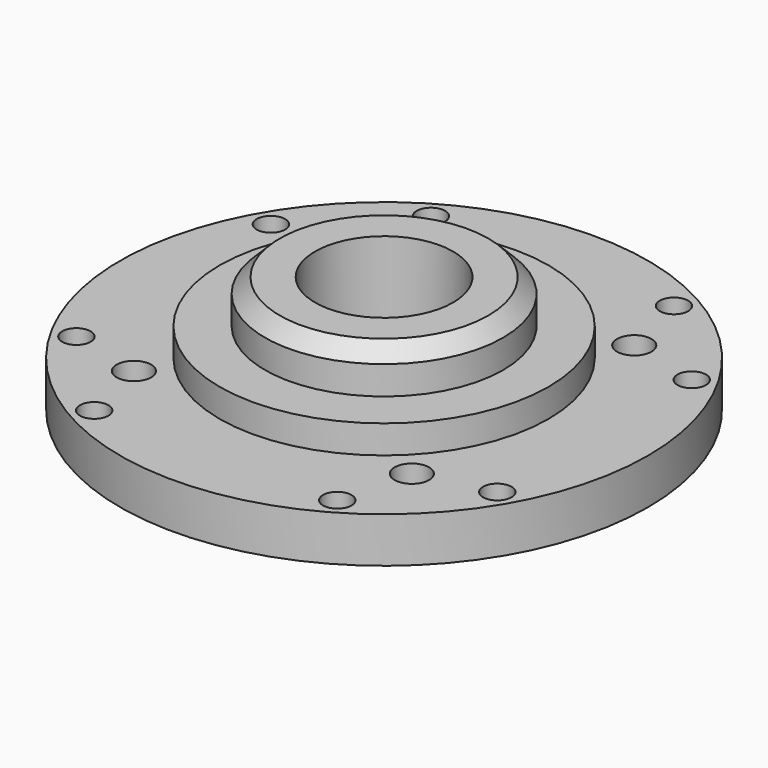
from build123d import *

# Parameters (mm, degrees)
F0_R      = 27.305
F0_R_2    = 7.14375
F1_DEPTH  = 4.699
F2_R      = 17.018
F2_R_2    = 7.14375
F3_DEPTH  = 2.921
F4_R      = 12.319
F4_R_2    = 7.14375
F5_DEPTH  = 4.4704
F6_SIZE2  = 1.524
F6_SIZE   = 1.524
F7_R      = 22.987
F7_R_2    = 11.938
F8_DEPTH  = 2.286
F10_D     = 1.778
F10_DEPTH = 5.9327142857
F10_TIP   = 0.5341650903
F11_D     = 3.5687
F12_D     = 2.9464


with BuildPart() as f1:
    # F0 (on Top) → F1 (new body)
    with BuildSketch(Plane.XY):
        Circle(F0_R)
        Circle(F0_R_2, mode=Mode.SUBTRACT)
    extrude(amount=F1_DEPTH)

    # F2 (on face) → F3 (join)
    with BuildSketch(Plane.XY.offset(4.699)):
        Circle(F2_R)
        Circle(F2_R_2, mode=Mode.SUBTRACT)
    extrude(amount=F3_DEPTH)

    # F4 (on face) → F5 (join)
    with BuildSketch(Plane.XY.offset(7.62)):
        Circle(F4_R)
        Circle(F4_R_2, mode=Mode.SUBTRACT)
    extrude(amount=F5_DEPTH)

    # F6
    f6_edges = [f1.edges().sort_by_distance(p)[0] for p in [
        (-12.319, 0, 12.0904),
    ]]
    chamfer(f6_edges, length=F6_SIZE, length2=F6_SIZE2)

    # F7 (on face) → F8 (cut)
    with BuildSketch(Plane(origin=(0, 0, 0), x_dir=(1, 0, 0), z_dir=(0, 0, -1))):
        Circle(F7_R)
        Circle(F7_R_2, mode=Mode.SUBTRACT)
    extrude(amount=-F8_DEPTH, mode=Mode.SUBTRACT)

    # F10
    with Locations(Plane(origin=(0, 0, 0), x_dir=(1, 0, 0), z_dir=(0, 0, -1))):
        with Locations((-8.1389067448, 4.699), (-8.1334533724, -4.689554482), (8.1389067448, 4.699), (0, 0), (0.0054533724, 9.388554482), (0, -9.398), (8.128, -4.699)):
            Hole(F10_D / 2, depth=F10_DEPTH)
            with Locations((0, 0, -(F10_DEPTH + F10_TIP / 2))):  # 118° drill point
                Cone(0, F10_D / 2, F10_TIP, mode=Mode.SUBTRACT)

    # F11 (through all)
    with Locations(Plane(origin=(0, 0, 0), x_dir=(1, 0, 0), z_dir=(0, 0, -1))):
        with Locations((14.3764, 14.3764), (14.3764, -14.3764), (-14.3764, -14.3764), (-14.3764, 14.3764)):
            Hole(F11_D / 2)

    # F12 (through all)
    with Locations(Plane(origin=(0, 0, 0), x_dir=(1, 0, 0), z_dir=(0, 0, -1))):
        with Locations((12.573, 21.7678), (21.7678, 12.573), (21.7678, -12.573), (12.573, -21.7678), (-12.573, -21.7678), (-21.7678, -12.573), (-21.7678, 12.573), (-12.573, 21.7678)):
            Hole(F12_D / 2)


solid = f1.part
